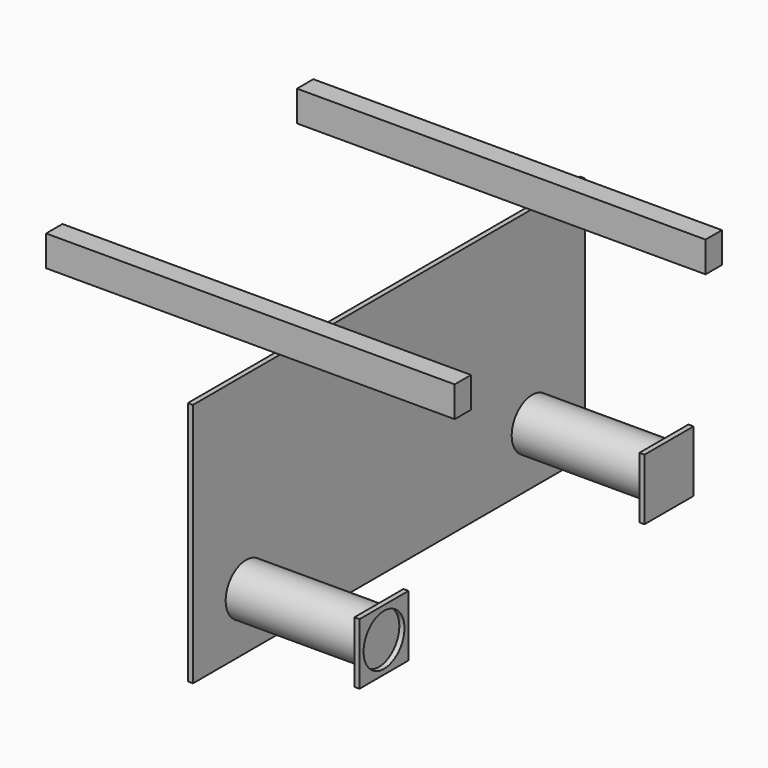
from build123d import *

# Parameters (mm, degrees)
F0_R     = 125
F1_DEPTH = 650
F2_W     = 300
F2_H     = 300
F3_DEPTH = 25
F2_R     = 125
F5_W     = 2400
F5_H     = 1200
F5_R     = 125
F6_DEPTH = 25
F7_W     = 100
F7_H     = 150
F8_DEPTH = 1000
F9_DEPTH = 1000


with BuildPart() as f1:
    # F0 (on Right) → F1 (new body)
    with BuildSketch(Plane.YZ):
        with Locations((-67.136593163, 0)):
            Circle(F0_R)
    extrude(amount=F1_DEPTH)

    # F2 (on face) → F3, piece 2 (join)
    with BuildSketch(Plane.YZ.offset(650)):
        with Locations((-67.136593163, 0)):
            Rectangle(F2_W, F2_H)
        with Locations((-67.136593163, 0)):
            Circle(F2_R, mode=Mode.SUBTRACT)
    extrude(amount=F3_DEPTH)


with BuildPart() as f1b:
    # F0 (on Right) → F1, piece 2 (new body)
    with BuildSketch(Plane.YZ):
        with BuildLine():
            ThreePointArc((1807.863406837, 0), (1682.863406837, 125), (1557.863406837, 0))
            ThreePointArc((1557.863406837, 0), (1682.863406837, -125), (1807.863406837, 0))
        make_face()
    extrude(amount=F1_DEPTH)

    # F2 (on face) → F3 (join)
    with BuildSketch(Plane.YZ.offset(650)):
        with Locations((1676.5514612198, 0)):
            Rectangle(F2_W, F2_H)
    extrude(amount=F3_DEPTH)


with BuildPart() as f1_1:
    add(f1.part)

    # F4: union F1b
    add(f1b.part)

    # F5 (on face) → F6 (join)
    with BuildSketch(Plane(origin=(0, 0, 0), x_dir=(0, -1, 0), z_dir=(-1, 0, 0))):
        with Locations((-807.863406837, 325)):
            Rectangle(F5_W, F5_H)
        with Locations((67.136593163, 0)):
            Circle(F5_R, mode=Mode.SUBTRACT)
    extrude(amount=F6_DEPTH)


with BuildPart() as f8:
    # F7 (on face) → F8 (new body)
    with BuildSketch(Plane(origin=(-25, 0, 0), x_dir=(0, -1, 0), z_dir=(-1, 0, 0))):
        with Locations((-1575.363406837, 1100)):
            Rectangle(F7_W, F7_H)
    extrude(amount=F8_DEPTH)

    # F7 (on face) → F9, piece 2 (join)
    with BuildSketch(Plane(origin=(-25, 0, 0), x_dir=(0, -1, 0), z_dir=(-1, 0, 0))):
        with Locations((-1575.363406837, 1100)):
            Rectangle(F7_W, F7_H)
    extrude(amount=-F9_DEPTH)


with BuildPart() as f8b:
    # F7 (on face) → F8, piece 2 (new body)
    with BuildSketch(Plane(origin=(-25, 0, 0), x_dir=(0, -1, 0), z_dir=(-1, 0, 0))):
        with Locations((-40.363406837, 1100)):
            Rectangle(F7_W, F7_H)
    extrude(amount=F8_DEPTH)

    # F7 (on face) → F9 (join)
    with BuildSketch(Plane(origin=(-25, 0, 0), x_dir=(0, -1, 0), z_dir=(-1, 0, 0))):
        with Locations((-40.363406837, 1100)):
            Rectangle(F7_W, F7_H)
    extrude(amount=-F9_DEPTH)


solid = Compound([f1_1.part, f8.part, f8b.part])
